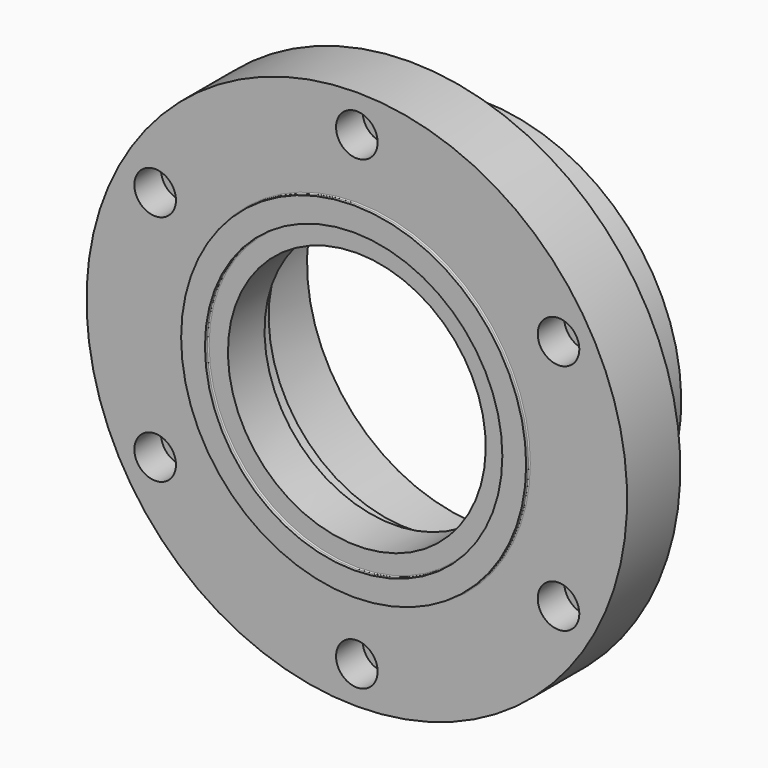
from build123d import *

# Parameters (mm, degrees)
F2_R           = 12.7
F3_R           = 2.286
F4_R           = 0.762
F5_R           = 0.762
F7_D           = 19.84248
F7_CBORE_D     = 31.75
F7_CBORE_DEPTH = 25.4


with BuildPart() as f1:
    # F0 (on Right) → F1 (revolve)
    with BuildSketch(Plane.YZ):
        Polygon((3.048, 131.7117), (0, 131.7117), (0, 113.538), (3.048, 113.538), (3.048, 98.425), (37.973, 98.425), (37.973, 107.95), (53.848, 107.95), (53.848, 133.35), (122.174, 133.35), (122.174, 152.4), (53.848, 152.4), (53.848, 206.375), (3.048, 206.375), align=None)
    revolve(axis=Axis((0, 0.855923, 0), (0, 1, 0)))

    # F2
    f2_edges = [f1.edges().sort_by_distance(p)[0] for p in [
        (0, 53.848, -133.35),
    ]]
    fillet(f2_edges, radius=F2_R)

    # F3
    f3_edges = [f1.edges().sort_by_distance(p)[0] for p in [
        (0, 53.848, -152.4),
    ]]
    fillet(f3_edges, radius=F3_R)

    # F4
    f4_edges = [f1.edges().sort_by_distance(p)[0] for p in [
        (0, 37.973, -107.95),
    ]]
    fillet(f4_edges, radius=F4_R)

    # F5
    f5_edges = [f1.edges().sort_by_distance(p)[0] for p in [
        (0, 3.048, -131.7117),
        (0, 3.048, -113.538),
    ]]
    fillet(f5_edges, radius=F5_R)

    # F7 (through all)
    with Locations(Plane.XZ.offset(-3.048)):
        with Locations((0, 177.8), (153.979317, 88.9), (153.979317, -88.9), (0, -177.8), (-153.979317, -88.9), (-153.979317, 88.9)):
            CounterBoreHole(F7_D / 2, F7_CBORE_D / 2, F7_CBORE_DEPTH)


solid = f1.part
